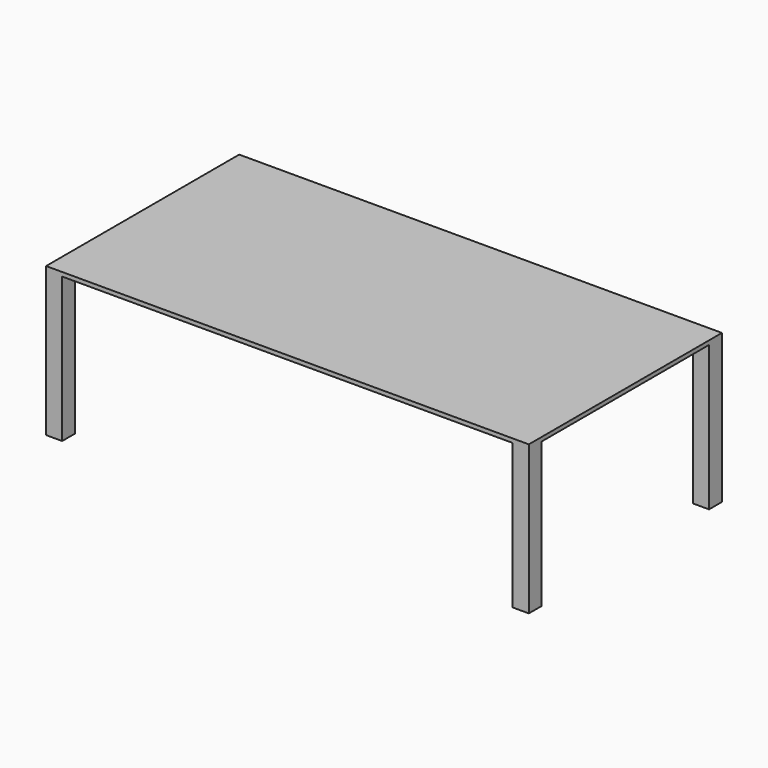
from build123d import *

# Parameters (mm, degrees)
F0_W     = 3048
F0_H     = 1524
F1_DEPTH = 25.4
F2_W     = 101.6
F2_H     = 101.6
F3_DEPTH = 914.4


with BuildPart() as f1:
    # F0 (on Top) → F1 (new body)
    with BuildSketch(Plane.XY):
        Rectangle(F0_W, F0_H)
    extrude(amount=F1_DEPTH)

    # F2 (on Top) → F3 (join)
    with BuildSketch(Plane.XY):
        with Locations((-1473.2, 711.2)):
            Rectangle(F2_W, F2_H)
        with Locations((-1473.2, -711.2)):
            Rectangle(F2_W, F2_H)
        with Locations((1473.2, 711.2)):
            Rectangle(F2_W, F2_H)
        with Locations((1473.2, -711.2)):
            Rectangle(F2_W, F2_H)
    extrude(amount=-F3_DEPTH)


solid = f1.part
